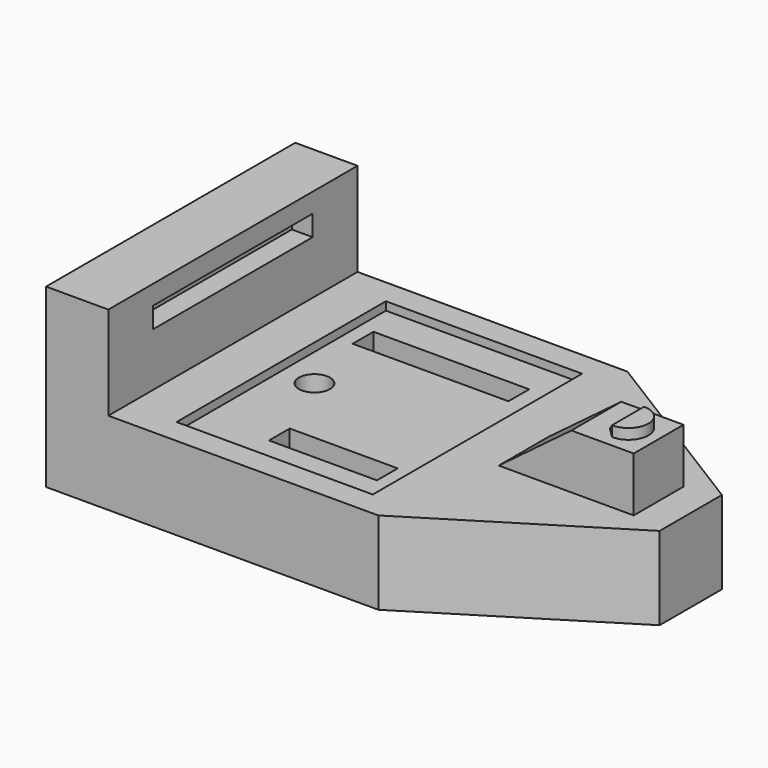
from build123d import *

# Parameters (mm, degrees)
SKETCH_R          = 1.5
PAD_DEPTH         = 8
SKETCH001_W       = 18.9
SKETCH001_H       = 25.2
POCKET_DEPTH      = 0.8
SKETCH002_W       = 15
SKETCH002_H       = 2.5
SKETCH002_W_2     = 10.4
POCKET001_DEPTH   = 3
SKETCH003_W       = 6
SKETCH003_H       = 30
PAD001_DEPTH      = 9
SKETCH004_W       = 19.2
SKETCH004_H       = 2
POCKET002_DEPTH   = 2
POCKET003_DEPTH   = 3
PAD002_DEPTH      = 3
PAD002_DEPTH_BACK = 3
PAD003_DEPTH      = 1
CHAMFER_SIZE      = 0.95


with BuildPart() as part:
    # Sketch → Pad (new body)
    with BuildSketch(Plane.XY):
        Polygon((-20.1, 15), (11.9, 15), (30, 3.75), (30, -3.75), (11.9, -15), (-20.1, -15), align=None)
        with Locations((-6.25, 0)):
            Circle(SKETCH_R, mode=Mode.SUBTRACT)
    extrude(amount=-PAD_DEPTH)

    # Sketch001 → Pocket (cut)
    with BuildSketch(Plane.XY):
        Rectangle(SKETCH001_W, SKETCH001_H)
    extrude(amount=-POCKET_DEPTH, mode=Mode.SUBTRACT)

    # Sketch002 (on Face33 of Pad003) → Pocket001 (cut)
    with BuildSketch(Plane.XY.offset(-0.8)):
        with Locations((-0.534042, 8.083783)):
            Rectangle(SKETCH002_W, SKETCH002_H)
        with Locations((2.090713, -8.153236)):
            Rectangle(SKETCH002_W_2, SKETCH002_H)
    extrude(amount=-POCKET001_DEPTH, mode=Mode.SUBTRACT)

    # Sketch003 (on Face4 of Pocket001) → Pad001 (join)
    with BuildSketch(Plane.XY):
        with Locations((-17.1, 0)):
            Rectangle(SKETCH003_W, SKETCH003_H)
    extrude(amount=PAD001_DEPTH)

    # Sketch004 (on Face10 of Pad001) → Pocket002 (cut)
    with BuildSketch(Plane.YZ.offset(-14.1)):
        with Locations((0, 6.14)):
            Rectangle(SKETCH004_W, SKETCH004_H)
    extrude(amount=-POCKET002_DEPTH, mode=Mode.SUBTRACT)

    # Sketch005 → Pocket003 (cut)
    with BuildSketch(Plane(origin=(0, 0, -8), x_dir=(1, 0, 0), z_dir=(0, 0, -1))):
        Polygon((-4.633419, 2.8), (-7.866581, 2.8), (-9.483162, 0), (-7.866581, -2.8), (-4.633419, -2.8), (-3.016838, 0), align=None)
    extrude(amount=-POCKET003_DEPTH, mode=Mode.SUBTRACT)

    # Sketch006 → Pad002 (join, two sides)
    with BuildSketch(Plane.XZ) as pad002_sk:
        Polygon((13.9, 0), (20.9, 5.25), (26.9, 5.25), (26.9, 0), align=None)
    extrude(amount=PAD002_DEPTH)
    extrude(pad002_sk.sketch, amount=-PAD002_DEPTH_BACK)

    # Sketch007 (on Face32 of Pad002) → Pad003 (join)
    with BuildSketch(Plane.XY.offset(5.25)):
        with BuildLine():
            ThreePointArc((24, -1.925), (25.925, 0), (24, 1.925))
            Line((24, 1.925), (23, 1.925))
            Line((23, 1.925), (23, -1.925))
            Line((23, -1.925), (24, -1.925))
        make_face()
    extrude(amount=PAD003_DEPTH)

    # Chamfer
    chamfer_edges = [part.edges().sort_by_distance(p)[0] for p in [
        (23, 0, 6.25),
        (23, -1.925, 5.75),
        (23, 1.925, 5.75),
    ]]
    chamfer(chamfer_edges, length=CHAMFER_SIZE)


solid = part.part
